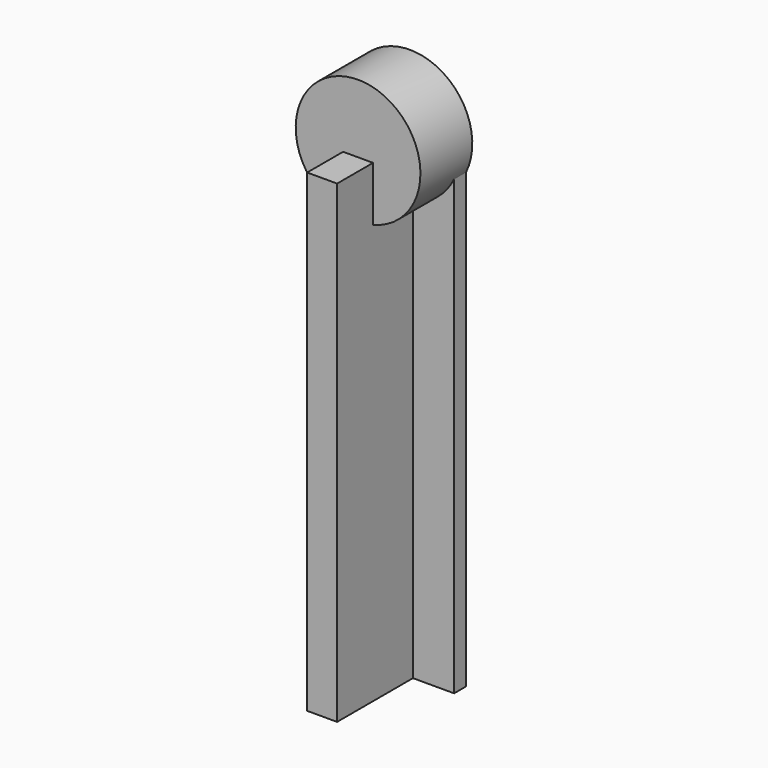
from build123d import *

# Parameters (mm, degrees)
BOX008_W               = 22.5
BOX008_H               = 3
BOX008_DEPTH           = 95
BOX009_W               = 6
BOX009_H               = 25
BOX009_DEPTH           = 95
CYLINDER012_R          = 12.5
CYLINDER012_DEPTH      = 13
CYLINDER012_ROLL_ANGLE = 90


with BuildPart() as cube008:
    # Box008 → Box008 (new body)
    with BuildSketch(Plane(origin=(-7.5, 19, 0), x_dir=(1, 0, 0), z_dir=(0, 0, 1))):
        with Locations((11.25, 1.5)):
            Rectangle(BOX008_W, BOX008_H)
    extrude(amount=BOX008_DEPTH)


with BuildPart() as cube009:
    # Box009 → Box009 (new body)
    with BuildSketch(Plane(origin=(0.75, 0, 0), x_dir=(1, 0, 0), z_dir=(0, 0, 1))):
        with Locations((3, 12.5)):
            Rectangle(BOX009_W, BOX009_H)
    extrude(amount=BOX009_DEPTH)


with BuildPart() as obj1:
    # Cylinder012 → Cylinder012 (new body)
    with BuildSketch(Plane.XY):
        Circle(CYLINDER012_R)
    extrude(amount=CYLINDER012_DEPTH)


with BuildPart() as obj1_1:
    # Cylinder012 roll: moved
    add(obj1.part.rotate(Axis((0, 0, 0), (1, 0, 0)), CYLINDER012_ROLL_ANGLE))


with BuildPart() as obj1_2:
    # Cylinder012 placement: moved
    add(obj1_1.part.moved(Location((3.75, 22, 96.2))))

    # Fusion017: union Cube008, Cube009
    add(cube008.part)
    add(cube009.part)


solid = obj1_2.part
